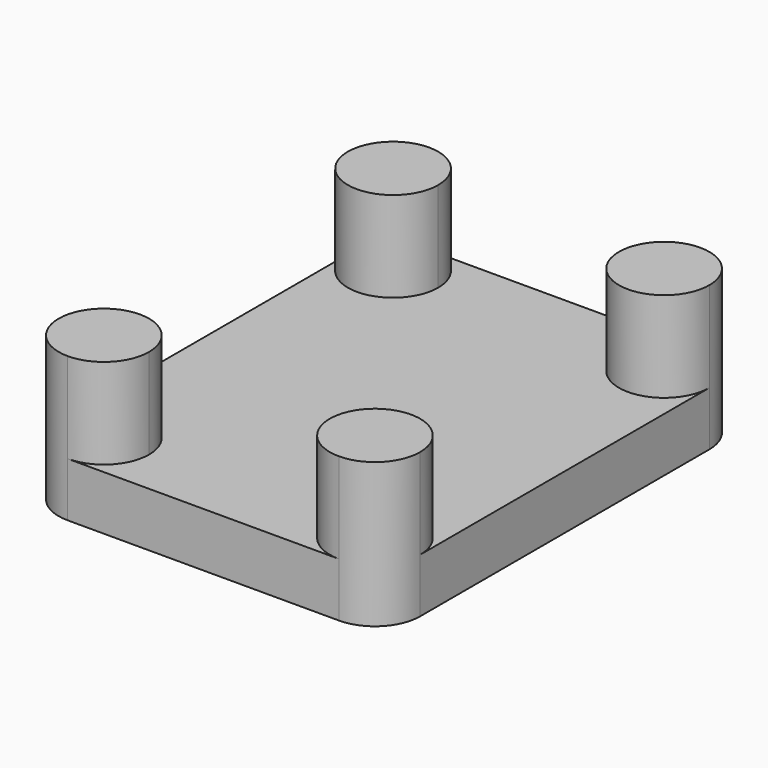
from build123d import *

# Parameters (mm, degrees)
F1_DEPTH = 3
F2_DEPTH = 5


with BuildPart() as f1:
    # F0 (on Top) → F1 (new body)
    with BuildSketch(Plane.XY):
        with BuildLine():
            ThreePointArc((-7.5, 12.5), (-5.732233, 11.767767), (-5, 10))
            ThreePointArc((-5, 10), (-7.5, 7.5), (-10, 10))
            Line((-10, 10), (-10, -10))
            ThreePointArc((-10, -10), (-7.5, -7.5), (-5, -10))
            ThreePointArc((-5, -10), (-5.732233, -11.767767), (-7.5, -12.5))
            Line((-7.5, -12.5), (7.5, -12.5))
            ThreePointArc((7.5, -12.5), (5.732233, -8.232233), (10, -10))
            Line((10, -10), (10, 10))
            ThreePointArc((10, 10), (5.732233, 8.232233), (7.5, 12.5))
            Line((7.5, 12.5), (-7.5, 12.5))
        make_face()
        with BuildLine():
            ThreePointArc((7.5, -12.5), (9.267767, -11.767767), (10, -10))
            ThreePointArc((10, -10), (5.732233, -8.232233), (7.5, -12.5))
        make_face()
        with BuildLine():
            ThreePointArc((-5, -10), (-7.5, -7.5), (-10, -10))
            ThreePointArc((-10, -10), (-9.267767, -11.767767), (-7.5, -12.5))
            ThreePointArc((-7.5, -12.5), (-5.732233, -11.767767), (-5, -10))
        make_face()
        with BuildLine():
            ThreePointArc((-10, 10), (-7.5, 7.5), (-5, 10))
            ThreePointArc((-5, 10), (-5.732233, 11.767767), (-7.5, 12.5))
            ThreePointArc((-7.5, 12.5), (-9.267767, 11.767767), (-10, 10))
        make_face()
        with BuildLine():
            ThreePointArc((10, 10), (9.267767, 11.767767), (7.5, 12.5))
            ThreePointArc((7.5, 12.5), (5.732233, 8.232233), (10, 10))
        make_face()
    extrude(amount=-F1_DEPTH)

    # F0 (on Top) → F2 (join)
    with BuildSketch(Plane.XY):
        with BuildLine():
            ThreePointArc((-5, -10), (-7.5, -7.5), (-10, -10))
            ThreePointArc((-10, -10), (-9.267767, -11.767767), (-7.5, -12.5))
            ThreePointArc((-7.5, -12.5), (-5.732233, -11.767767), (-5, -10))
        make_face()
        with BuildLine():
            ThreePointArc((7.5, -12.5), (9.267767, -11.767767), (10, -10))
            ThreePointArc((10, -10), (5.732233, -8.232233), (7.5, -12.5))
        make_face()
        with BuildLine():
            ThreePointArc((10, 10), (9.267767, 11.767767), (7.5, 12.5))
            ThreePointArc((7.5, 12.5), (5.732233, 8.232233), (10, 10))
        make_face()
        with BuildLine():
            ThreePointArc((-10, 10), (-7.5, 7.5), (-5, 10))
            ThreePointArc((-5, 10), (-5.732233, 11.767767), (-7.5, 12.5))
            ThreePointArc((-7.5, 12.5), (-9.267767, 11.767767), (-10, 10))
        make_face()
    extrude(amount=F2_DEPTH)


solid = f1.part
